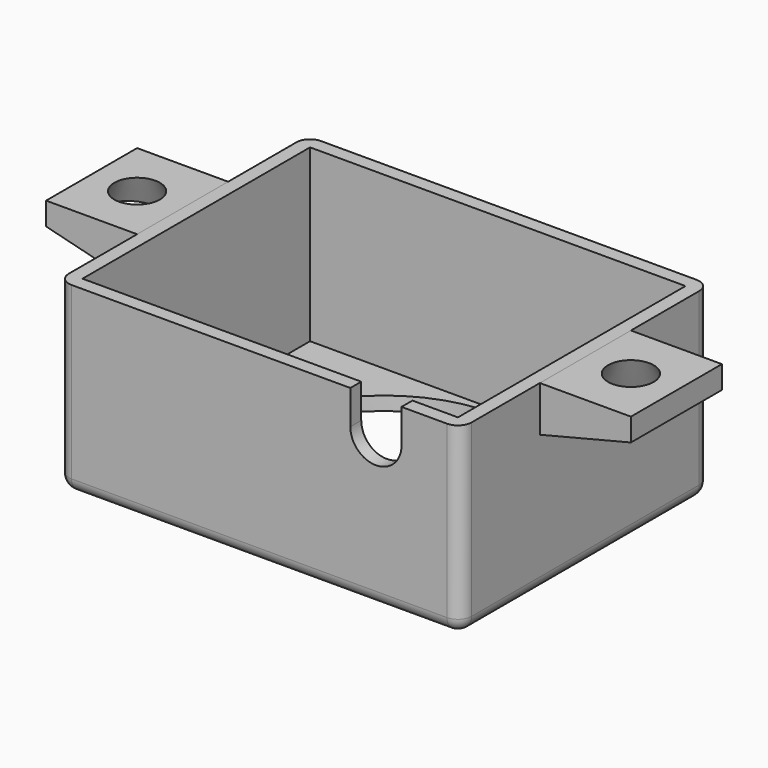
from build123d import *

# Parameters (mm, degrees)
PAD001_DEPTH = 5
PAD002_DEPTH = 1.2
SKETCH_W     = 33
SKETCH_H     = 25
PAD_DEPTH    = 15
THICKNESS_T  = 1.2
SKETCH001_R  = 12
POCKET_DEPTH = 16.201


with BuildPart() as tornillo:
    # Sketch003 → Revolution (revolve)
    with BuildSketch(Plane.XZ):
        Polygon((0, 15), (0, 11), (4, 11), (2, 15), align=None)
    revolve(axis=Axis((0, 0, 0), (0, 0, 1)))


with BuildPart() as tornillo_1:
    # Body002 placement: moved
    add(tornillo.part.moved(Location((-21.7, 0, 0))))


with BuildPart() as obj1:
    # Sketch002 → Pad001 (new body, symmetric)
    with BuildSketch(Plane.XZ):
        Polygon((-17.7, 15), (-25.7, 15), (-25.7, 13), (-17.7, 11), align=None)
    extrude(amount=PAD001_DEPTH, both=True)

    # Cut: cut Tornillo
    add(tornillo_1.part, mode=Mode.SUBTRACT)


with BuildPart() as obj2:
    # Part__Mirroring: instance of obj1
    add(obj1.part.mirror(Plane(origin=(0, 0, 0), x_dir=(0, -1, 0), z_dir=(1, 0, 0))))


with BuildPart() as obj3:
    # Fusion base: copy of obj1
    add(obj1.part)

    # Fusion: union obj2
    add(obj2.part)


with BuildPart() as cablehole:
    # Sketch004 → Pad002 (new body)
    with BuildSketch(Plane.XZ.offset(12.5)):
        with BuildLine():
            Line((8, 15), (12.5, 15))
            Line((12.5, 15), (12.5, 12))
            ThreePointArc((8, 12), (10.25, 9.75), (12.5, 12))
            Line((8, 12), (8, 15))
        make_face()
    extrude(amount=PAD002_DEPTH)


with BuildPart() as obj4:
    # Sketch → Pad (new body)
    with BuildSketch(Plane.XY):
        Rectangle(SKETCH_W, SKETCH_H)
    extrude(amount=PAD_DEPTH)

    # Thickness
    thickness_openings = [obj4.faces().sort_by_distance(p)[0] for p in [
        (0, 0, 15),
    ]]
    offset(amount=THICKNESS_T, openings=thickness_openings)

    # Sketch001 (on Face16 of Thickness) → Pocket (cut, through all)
    with BuildSketch(Plane(origin=(0, 0, -1.2), x_dir=(1, 0, 0), z_dir=(0, 0, -1))):
        Circle(SKETCH001_R)
    extrude(amount=-POCKET_DEPTH, mode=Mode.SUBTRACT)

    # Cut001: cut CableHole
    add(cablehole.part, mode=Mode.SUBTRACT)


solid = Compound([obj3.part, obj4.part])
